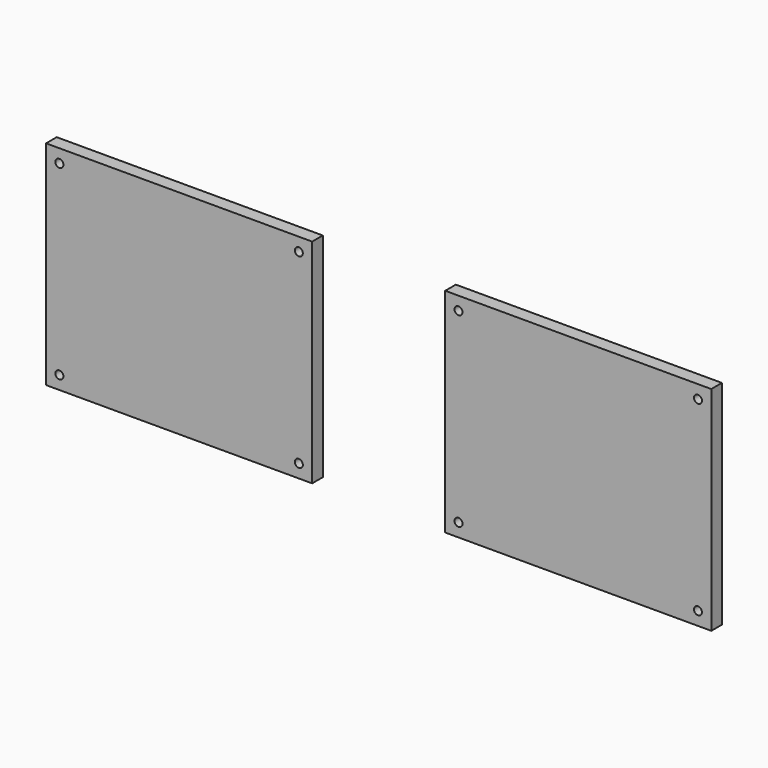
from build123d import *

# Parameters (mm, degrees)
F0_W     = 80
F0_H     = 60
F1_DEPTH = 15
F2_W     = 100
F2_H     = 80
F3_DEPTH = 5
F4_R     = 1.5
F5_DEPTH = 5
F6_W     = 4.706
F6_H     = 60
F6_W_2   = 4.704
F7_DEPTH = 15
F8_SIZE  = 0.5


with BuildPart() as f1:
    # F0 (on Front) → F1 (new body)
    with BuildSketch(Plane.XZ):
        with Locations((-39.4887671946, -8.3477210999)):
            Rectangle(F0_W, F0_H)
    extrude(amount=-F1_DEPTH)

    # F2 (on face) → F3 (join)
    with BuildSketch(Plane.XZ):
        with Locations((-39.4887671946, -8.3477210999)):
            Rectangle(F2_W, F2_H)
    extrude(amount=F3_DEPTH)

    # F4 (on face) → F5 (cut)
    with BuildSketch(Plane.XZ.offset(5)):
        with Locations((-84.4887671946, 26.6522789001)):
            Circle(F4_R)
        with Locations((5.5112328054, 26.6522789001)):
            Circle(F4_R)
        with Locations((5.5112328054, -43.3477210999)):
            Circle(F4_R)
        with Locations((-84.4887671946, -43.3477210999)):
            Circle(F4_R)
    extrude(amount=-F5_DEPTH, mode=Mode.SUBTRACT)

    # F6 (on face) → F7 (cut)
    with BuildSketch(Plane(origin=(0, 15, 0), x_dir=(-1, 0, 0), z_dir=(0, 1, 0))):
        with Locations((1.8417671946, -8.3477210999)):
            Rectangle(F6_W, F6_H)
        with Locations((11.2537671946, -8.3477210999)):
            Rectangle(F6_W, F6_H)
        with Locations((20.6657671946, -8.3477210999)):
            Rectangle(F6_W, F6_H)
        with Locations((30.0777671946, -8.3477210999)):
            Rectangle(F6_W, F6_H)
        with Locations((39.4897671946, -8.3477210999)):
            Rectangle(F6_W, F6_H)
        with Locations((48.9017671946, -8.3477210999)):
            Rectangle(F6_W, F6_H)
        with Locations((58.3137671946, -8.3477210999)):
            Rectangle(F6_W, F6_H)
        with Locations((67.7257671946, -8.3477210999)):
            Rectangle(F6_W, F6_H)
        with Locations((77.1367671946, -8.3477210999)):
            Rectangle(F6_W_2, F6_H)
    extrude(amount=-F7_DEPTH, mode=Mode.SUBTRACT)

    # F8
    f8_edges = [f1.edges().sort_by_distance(p)[0] for p in [
        (-70.078767, 15, -8.347721),
        (-15.959767, 15, -38.347721),
        (-18.312767, 15, -8.347721),
        (-15.959767, 15, 21.652279),
        (-13.606767, 15, -8.347721),
        (-25.371767, 15, -38.347721),
        (-27.724767, 15, -8.347721),
        (-25.371767, 15, 21.652279),
        (-23.018767, 15, -8.347721),
        (-32.430767, 15, -8.347721),
        (-8.900767, 15, -8.347721),
        (-60.666767, 15, -8.347721),
        (-4.194767, 15, -8.347721),
        (-34.783767, 15, -38.347721),
        (-37.136767, 15, -8.347721),
        (-34.783767, 15, 21.652279),
        (-65.372767, 15, -8.347721),
        (-55.960767, 15, -8.347721),
        (-44.195767, 15, -38.347721),
        (-46.548767, 15, -8.347721),
        (-44.195767, 15, 21.652279),
        (-41.842767, 15, -8.347721),
        (-63.019767, 15, -38.347721),
        (-63.019767, 15, 21.652279),
        (-53.607767, 15, -38.347721),
        (-53.607767, 15, 21.652279),
        (-51.254767, 15, -8.347721),
        (-6.547767, 15, -38.347721),
        (-6.547767, 15, 21.652279),
        (-74.784767, 15, -8.347721),
        (-72.431767, 15, -38.347721),
        (-72.431767, 15, 21.652279),
    ]]
    chamfer(f8_edges, length=F8_SIZE)


with BuildPart() as f9_1:
    # F9: copy of F1
    add(f1.part.moved(Location((150, 0, 0))))


solid = Compound([f1.part, f9_1.part])
